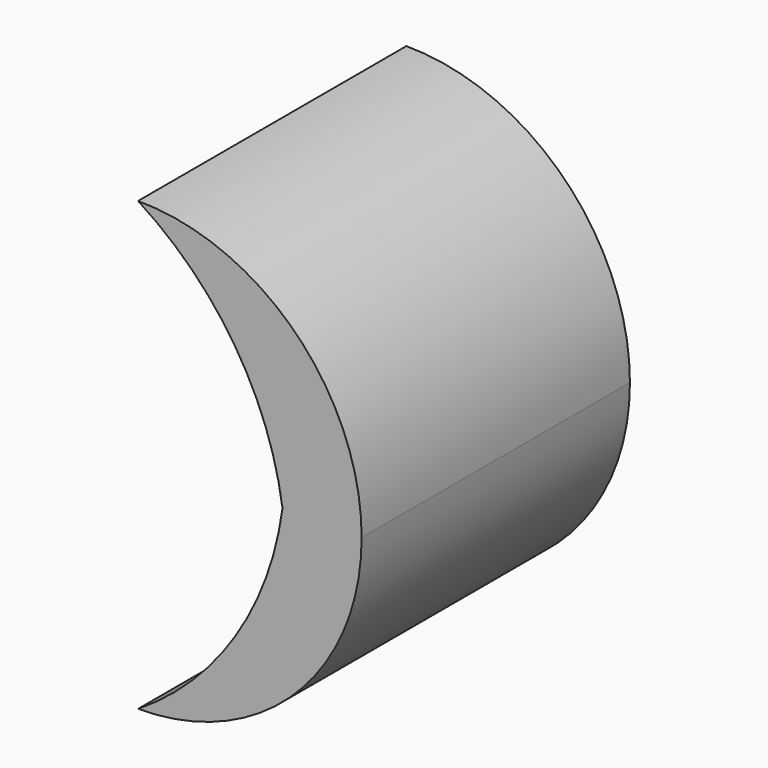
from build123d import *

# Parameters (mm, degrees)
F1_DEPTH = 76.2


with BuildPart() as f1:
    # F0 (on Front) → F1 (new body)
    with BuildSketch(Plane.XZ):
        with BuildLine():
            ThreePointArc((0, -50.8), (35.921024, -35.921024), (50.8, 0))
            ThreePointArc((50.8, 0), (35.921024, 35.921024), (0, 50.8))
            ThreePointArc((0, 50.8), (21.984363, 29.002421), (32.815162, 0))
            ThreePointArc((32.815162, 0), (22.093584, -29.072975), (0, -50.8))
        make_face()
    extrude(amount=F1_DEPTH)


solid = f1.part
